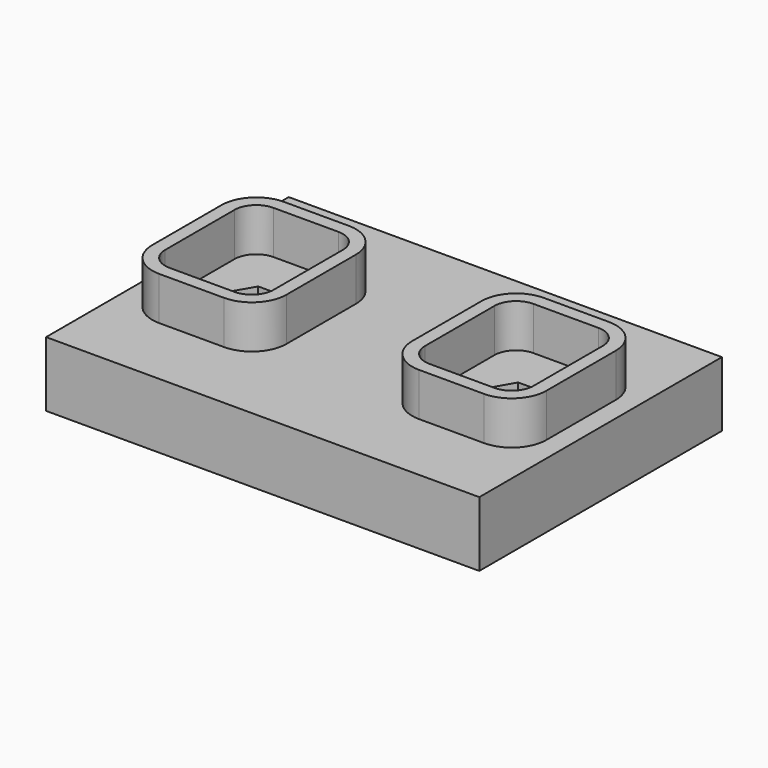
from build123d import *

# Parameters (mm, degrees)
SKETCH_W     = 100
SKETCH_H     = 70
PAD_DEPTH    = 15
PAD001_DEPTH = 10
POCKET_DEPTH = 5


with BuildPart() as part:
    # Sketch → Pad (new body)
    with BuildSketch(Plane.XY):
        Rectangle(SKETCH_W, SKETCH_H)
    extrude(amount=PAD_DEPTH)

    # Sketch001 (on Face6 of Pad) → Pad001 (join)
    with BuildSketch(Plane.XY.offset(15)):
        with BuildLine():
            Line((-37.5, -18), (-22.5, -18))
            ThreePointArc((-22.5, -18), (-16.843146, -15.656854), (-14.5, -10))
            Line((-14.5, -10), (-14.5, 10))
            ThreePointArc((-14.5, 10), (-16.843146, 15.656854), (-22.5, 18))
            Line((-22.5, 18), (-37.5, 18))
            ThreePointArc((-37.5, 18), (-43.156854, 15.656854), (-45.5, 10))
            Line((-45.5, 10), (-45.5, -10))
            ThreePointArc((-45.5, -10), (-43.156854, -15.656854), (-37.5, -18))
        make_face()
        with BuildLine():
            Line((-37.5, -15), (-22.5, -15))
            ThreePointArc((-22.5, -15), (-18.964466, -13.535534), (-17.5, -10))
            Line((-17.5, -10), (-17.5, 10))
            ThreePointArc((-17.5, 10), (-18.964466, 13.535534), (-22.5, 15))
            Line((-22.5, 15), (-37.5, 15))
            ThreePointArc((-37.5, 15), (-41.035534, 13.535534), (-42.5, 10))
            Line((-42.5, 10), (-42.5, -10))
            ThreePointArc((-42.5, -10), (-41.035534, -13.535534), (-37.5, -15))
        make_face(mode=Mode.SUBTRACT)
    pad001 = extrude(amount=PAD001_DEPTH)

    # Sketch002 (on Face5 of Pad001) → Pocket (cut)
    with BuildSketch(Plane.XY.offset(15)):
        Polygon((-25, 0), (-27.5, 4.330127), (-32.5, 4.330127), (-35, 0), (-32.5, -4.330127), (-27.5, -4.330127), align=None)
    pocket = extrude(amount=-POCKET_DEPTH, mode=Mode.SUBTRACT)

    # Mirrored: Pad001, Pocket across Sketch001 V_Axis
    add(pad001.mirror(Plane(origin=(0, 0, 15), x_dir=(0, 0, 1), z_dir=(1, 0, 0))))
    add(pocket.mirror(Plane(origin=(0, 0, 15), x_dir=(0, 0, 1), z_dir=(1, 0, 0))), mode=Mode.SUBTRACT)


solid = part.part
